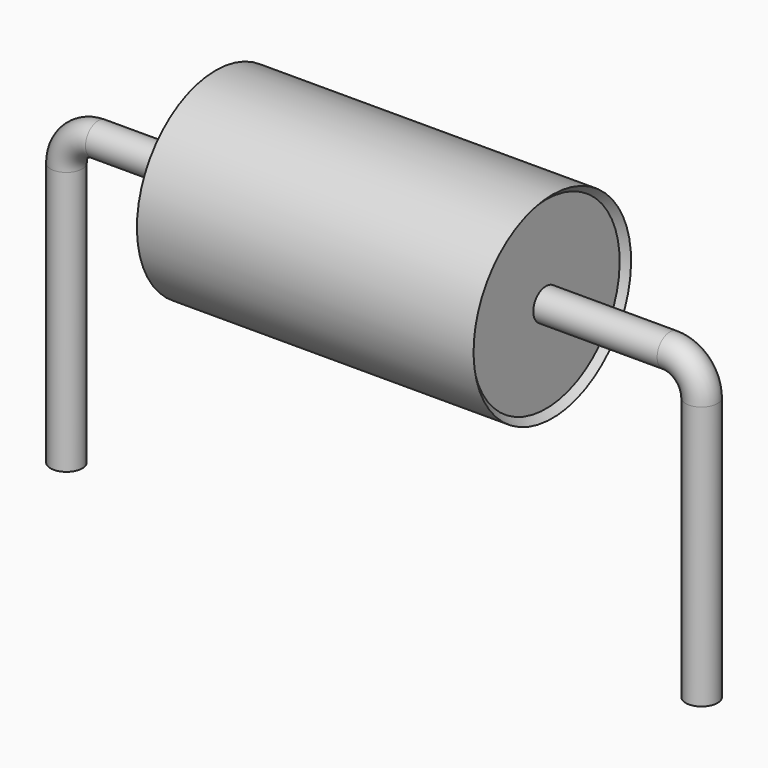
from build123d import *

# Parameters (mm, degrees)
SKETCH_R = 0.25


with BuildPart() as sweep_body:
    # Sweep: sweep along a path in Sketch001
    with BuildLine(Plane.XZ) as sweep_path:
        Line((0, -3), (0, 1.15))
        ThreePointArc((0, 1.15), (0.146443, 1.50355), (0.499991, 1.65))
        Line((0.499991, 1.65), (9.5, 1.65))
        ThreePointArc((9.5, 1.65), (9.853553, 1.503553), (10, 1.15))
        Line((10, 1.15), (10, -3))
    # Sketch → Sweep (sweep)
    with BuildSketch(Plane.XY.offset(-2)):
        Circle(SKETCH_R)
    sweep(path=sweep_path.line)


with BuildPart() as revolution:
    # Sketch002 → Revolution (revolve)
    with BuildSketch(Plane.XZ):
        Polygon((2.35, 3.2), (7.65, 3.2), (7.55, 3.1), (7.55, 1.65), (2.45, 1.65), (2.45, 3.1), align=None)
    revolve(axis=Axis((7.611803, 0, 1.65), (1, 0, 0)))


solid = Compound([sweep_body.part, revolution.part])
